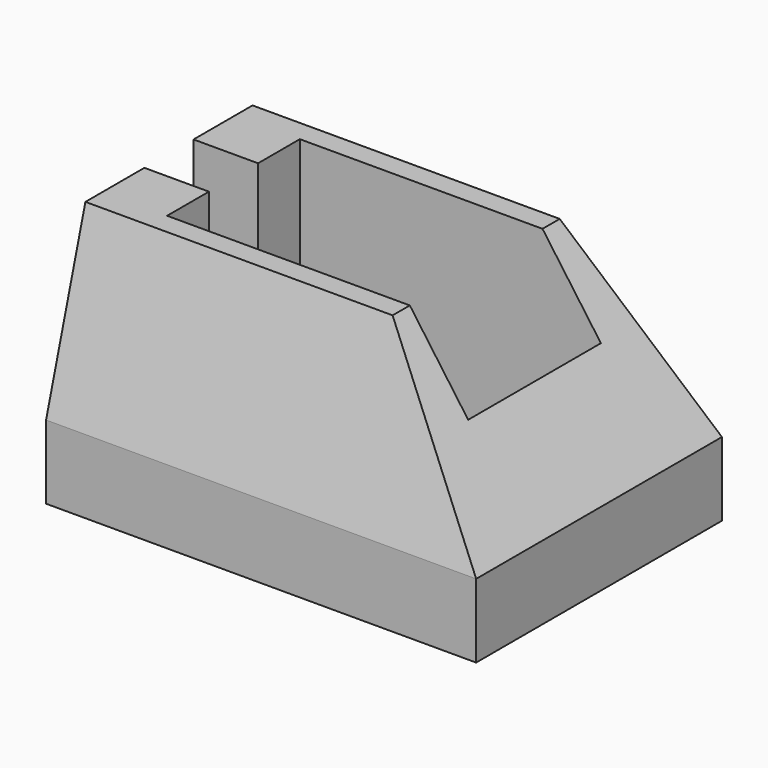
from build123d import *

# Parameters (mm, degrees)
SKETCH_W         = 35
SKETCH_H         = 25
PAD_DEPTH        = 20
POCKET_DEPTH     = 16
CHAMFER_SIZE2    = 14
CHAMFER_SIZE     = 4
CHAMFER001_SIZE2 = 14
CHAMFER001_SIZE  = 4
POCKET001_DEPTH  = 25.001


with BuildPart() as part:
    # Sketch → Pad (new body)
    with BuildSketch(Plane.XY):
        Rectangle(SKETCH_W, SKETCH_H)
    extrude(amount=PAD_DEPTH)

    # Sketch001 (on Face6 of Pad) → Pocket (cut)
    with BuildSketch(Plane.XY.offset(20)):
        Polygon((-12.25, -6.75), (12.25, -6.75), (12.25, 6.75), (-12.25, 6.75), (-12.25, 2.5), (-17.5, 2.5), (-17.5, -2.5), (-12.25, -2.5), align=None)
    extrude(amount=-POCKET_DEPTH, mode=Mode.SUBTRACT)

    # Chamfer
    chamfer_edges = [part.edges().sort_by_distance(p)[0] for p in [
        (0, -12.5, 20),
    ]]
    chamfer_side = part.faces().sort_by_distance((-17.069884, -7.5, 20))[0]
    chamfer(chamfer_edges, length=CHAMFER_SIZE, length2=CHAMFER_SIZE2, reference=chamfer_side)

    # Chamfer001
    chamfer001_edges = [part.edges().sort_by_distance(p)[0] for p in [
        (0, 12.5, 20),
    ]]
    chamfer001_side = part.faces().sort_by_distance((-17.091833, -5.5, 20))[0]
    chamfer(chamfer001_edges, length=CHAMFER001_SIZE, length2=CHAMFER001_SIZE2, reference=chamfer001_side)

    # Sketch002 (on Face6 of Chamfer001) → Pocket001 (cut, through all)
    with BuildSketch(Plane.XZ.offset(12.5)):
        Polygon((7.5, 20), (17.5, 20), (17.5, 6), align=None)
    extrude(amount=-POCKET001_DEPTH, mode=Mode.SUBTRACT)


solid = part.part
